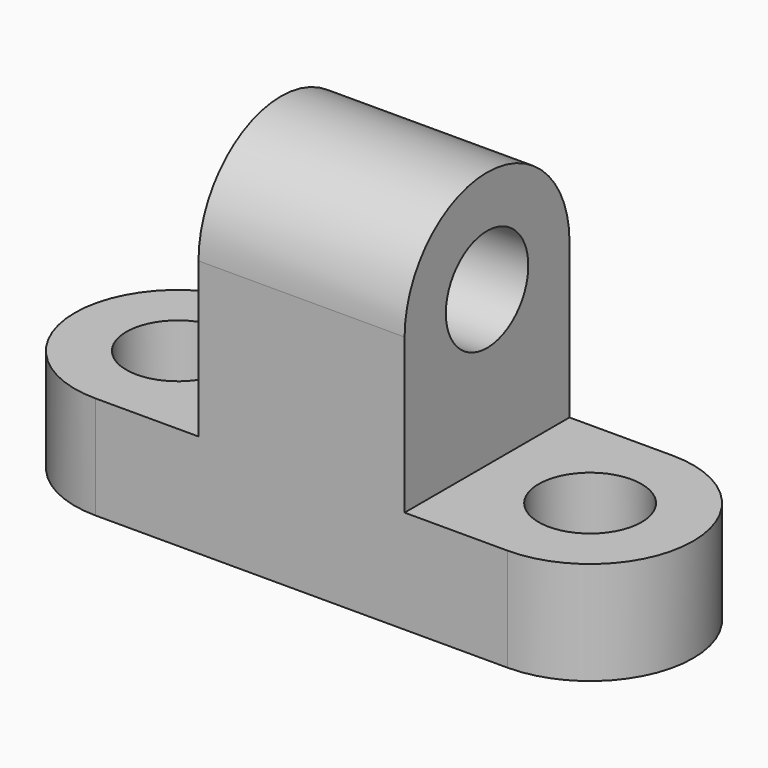
from build123d import *

# Parameters (mm, degrees)
F1_DEPTH  = 25.4
F3_DEPTH  = 12.7
F5_DEPTH  = 12.7
F7_DEPTH  = 25.4
F8_R      = 6.352316
F9_DEPTH  = 25.4
F10_R     = 6.352482
F12_DEPTH = 25.4
F11_R     = 6.35
F13_DEPTH = 25.4


with BuildPart() as f1:
    # F0 (on Front) → F1 (new body)
    with BuildSketch(Plane.XZ):
        Polygon((-37.59941, 3.532893), (-37.59941, -9.167107), (13.20059, -9.167107), (13.20059, 3.532893), (0.50059, 3.532893), (0.50059, 22.582893), (-24.89941, 22.582893), (-24.89941, 3.532893), align=None)
    extrude(amount=F1_DEPTH)

    # F2 (on face) → F3 (join)
    with BuildSketch(Plane.XY.offset(3.532893)):
        with BuildLine():
            Line((13.20059, 0), (13.20059, -25.4))
            ThreePointArc((13.20059, -25.4), (25.90059, -12.7), (13.20059, 0))
        make_face()
    extrude(amount=-F3_DEPTH)

    # F4 (on face) → F5 (join)
    with BuildSketch(Plane.XY.offset(3.532893)):
        with BuildLine():
            Line((-37.59941, -25.4), (-37.59941, 0))
            ThreePointArc((-37.59941, 0), (-50.29941, -12.7), (-37.59941, -25.4))
        make_face()
    extrude(amount=-F5_DEPTH)

    # F6 (on face) → F7 (join)
    with BuildSketch(Plane(origin=(-24.89941, 0, 0), x_dir=(0, -1, 0), z_dir=(-1, 0, 0))):
        with BuildLine():
            Line((0, 22.582893), (25.4, 22.582893))
            ThreePointArc((25.4, 22.582893), (12.7, 35.282893), (0, 22.582893))
        make_face()
    extrude(amount=-F7_DEPTH)

    # F8 (on face) → F9 (cut)
    with BuildSketch(Plane(origin=(-24.89941, 0, 0), x_dir=(0, -1, 0), z_dir=(-1, 0, 0))):
        with Locations((12.7, 22.582893)):
            Circle(F8_R)
    extrude(amount=-F9_DEPTH, mode=Mode.SUBTRACT)

    # F10 (on face) → F12 (cut)
    with BuildSketch(Plane.XY.offset(3.532893)):
        with Locations((-37.59941, -12.7)):
            Circle(F10_R)
    extrude(amount=-F12_DEPTH, mode=Mode.SUBTRACT)

    # F11 (on face) → F13 (cut)
    with BuildSketch(Plane.XY.offset(3.532893)):
        with Locations((13.20059, -12.7)):
            Circle(F11_R)
    extrude(amount=-F13_DEPTH, mode=Mode.SUBTRACT)


solid = f1.part
